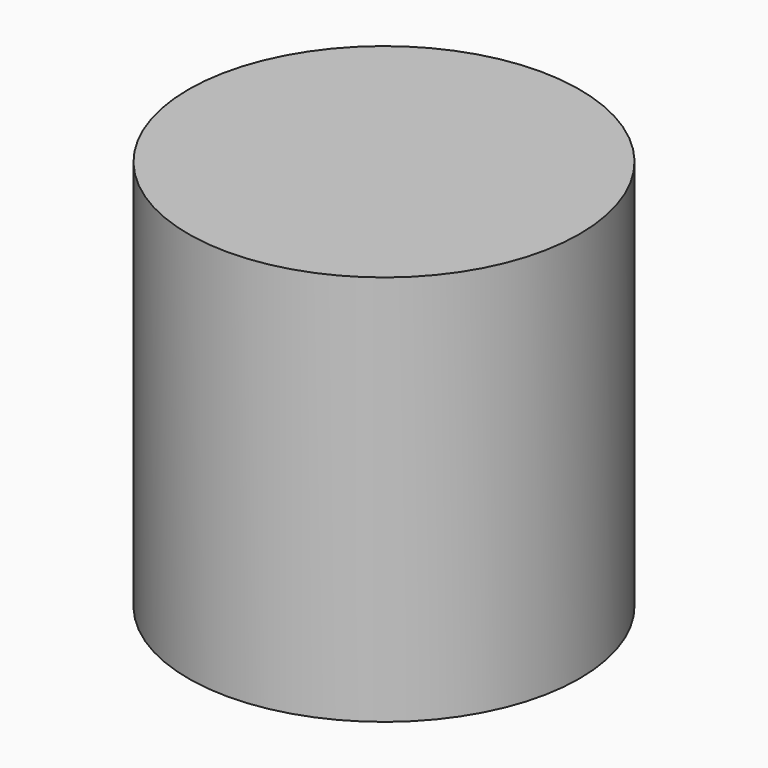
from build123d import *

# Parameters (mm, degrees)
SKETCH_R  = 2.5
PAD_DEPTH = 5


with BuildPart() as part:
    # Sketch → Pad (new body)
    with BuildSketch(Plane.XY):
        Circle(SKETCH_R)
    extrude(amount=PAD_DEPTH)


solid = part.part
